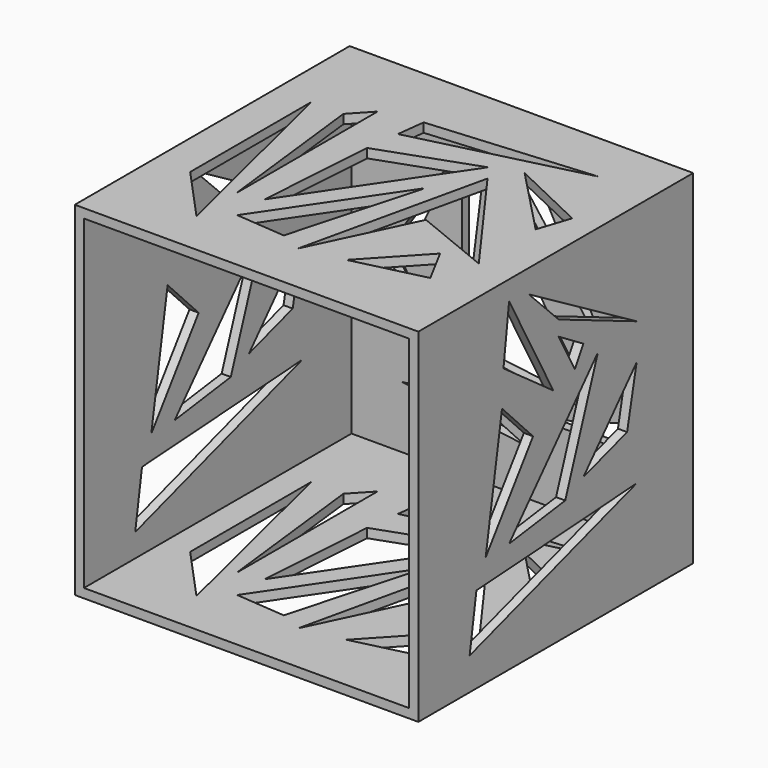
from build123d import *

# Parameters (mm, degrees)
F0_W     = 75
F0_H     = 75
F1_DEPTH = 75
F2_T     = -2
F4_DEPTH = 146.3
F6_DEPTH = 84.9
F8_DEPTH = 25


with BuildPart() as f1:
    # F0 (on Front) → F1 (new body)
    with BuildSketch(Plane.XZ):
        with Locations((-2.307421, 2.156376)):
            Rectangle(F0_W, F0_H)
    extrude(amount=-F1_DEPTH)

    # F2
    f2_openings = [f1.faces().sort_by_distance(p)[0] for p in [
        (-2.307421, 0, 2.156376),
    ]]
    offset(amount=F2_T, openings=f2_openings)

    # F3 (on face) → F4 (cut)
    with BuildSketch(Plane(origin=(0, 0, -35.343624), x_dir=(1, 0, 0), z_dir=(0, 0, -1))):
        Polygon((-20.990076, -20.543478), (-25.009453, -54.782614), (-20.990076, -59.099723), align=None)
        Polygon((6.550096, -54.782614), (-15.779775, -21.734407), (-13.993384, -47.488187), align=None)
        Polygon((10.420605, -33.048205), (0, -11.164933), (9.080812, -51.507566), (27.54017, -26.051514), align=None)
        Polygon((23.371927, -63.863426), (-13.100189, -54.782614), (-12.35586, -60.886107), align=None)
        Polygon((-4.912571, -13.397922), (-15.779775, -14.291116), (2.988963, -42.068847), align=None)
        Polygon((-32.006145, -54.782614), (-20.990076, -9.676277), (-32.006145, -21.734407), align=None)
        Polygon((29.545442, -49.04395), (27.218709, -41.974761), (12.761539, -57.036284), align=None)
        Polygon((24.409195, -16.750237), (9.080812, -13.030036), (20.074258, -24.837809), align=None)
    extrude(amount=-F4_DEPTH, mode=Mode.SUBTRACT)

    # F5 (on face) → F6 (cut)
    with BuildSketch(Plane.YZ.offset(35.192579)):
        Polygon((15.842715, -16.520021), (13.993383, -28.284499), (59.546318, -13.695653), align=None)
        Polygon((22.829311, 15.588589), (18.369781, -11.168586), (31.302415, 6.818181), align=None)
        Polygon((48.991881, 15.737241), (24.761772, -11.168586), (40.072825, -9.087472), align=None)
        Polygon((24.761772, 35.430476), (23.225486, 23.14827), (36.825874, 13.36948), align=None)
        Polygon((30.14504, 34.565531), (38.275514, 26.435059), (59.546318, 17.439637), align=None)
        Polygon((59.546318, 9.522333), (45.022078, -6.60581), (56.95831, -2.800056), align=None)
        Polygon((45.022078, 19.038399), (38.275514, 23.14827), (42.701558, 15.054593), align=None)
    extrude(amount=-F6_DEPTH, mode=Mode.SUBTRACT)

    # F7 (on face) → F8 (cut)
    with BuildSketch(Plane(origin=(0, 75, 0), x_dir=(-1, 0, 0), z_dir=(0, 1, 0))):
        Polygon((-20.296717, -3.729921), (3.701246, 27.96888), (-3.999593, 26.536167), align=None)
        Polygon((7.46212, 25.461631), (9.253013, 24.208006), (13.730245, -11.43076), (13.730245, 25.461631), align=None)
        Polygon((9.253013, -9.287988), (3.701246, 16.865345), (-16.356753, -12.505296), align=None)
        Polygon((-23.878502, -11.43076), (-23.878502, 12.567203), (-28.534822, -17.340705), (-2.925058, -17.340705), align=None)
        Polygon((30.441476, 4.064158), (14.80478, 27.96888), (26.445584, 3.075472), (18.446537, -11.779902), align=None)
        Polygon((19.680761, 2.233784), (16.774762, 8.44815), (18.227762, -0.464643), align=None)
        Polygon((0, -23.215262), (26.803762, -19.847956), (11.629337, -17.777083), align=None)
        Polygon((-9.792007, 24.208006), (-21.192163, 33.162467), (-18.604818, 12.567203), align=None)
    extrude(amount=-F8_DEPTH, mode=Mode.SUBTRACT)


solid = f1.part
